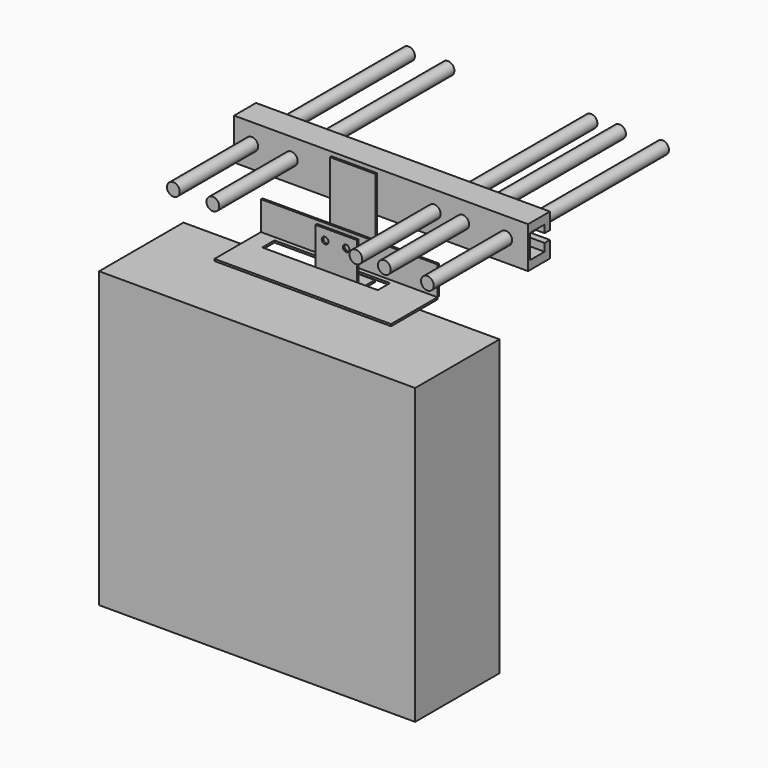
from build123d import *

# Parameters (mm, degrees)
F1_DEPTH  = 300
F2_W      = 46.7377305031
F2_H      = 37.9861071706
F2_H_2    = 57.5625300407
F2_R      = 3.5464845082
F2_R_2    = 3.5487842395
F3_DEPTH  = 2
F4_W      = 44.6821078658
F4_H      = 19.8899268657
F5_DEPTH  = 2
F6_W      = 42.6081120968
F6_H      = 44.5759128779
F6_R      = 3.435329419
F6_R_2    = 3.3732396527
F7_DEPTH  = 2
F9_W      = 180.1773458719
F9_H      = 59.2437896412
F9_W_2    = 117.9433763027
F9_H_2    = 15.5952386558
F10_DEPTH = 2
F11_W     = 180.1773458719
F11_H     = 29.4754692465
F11_R     = 2.2291737864
F11_R_2   = 2.7189611164
F12_DEPTH = 2
F14_DEPTH = 300
F15_R     = 6.5135337173
F16_DEPTH = 100
F17_DEPTH = 200


with BuildPart() as f1:
    # F0 (on Right) → F1 (new body)
    with BuildSketch(Plane.YZ):
        Polygon((0, 42.2146357596), (0, 0), (27.9495714174, 0), (27.9495714174, 16.7309522358), (21.111213831, 16.7309522358), (21.111213831, 8.854838892), (2.8035883623, 8.854838892), (2.8035883623, 33.3597968676), (21.111213831, 33.3597968676), (21.111213831, 25.4836835238), (27.9495714174, 25.4836835238), (27.9495714174, 42.2146357596), align=None)
    extrude(amount=F1_DEPTH)

    # F15 (on face) → F16 (join)
    with BuildSketch(Plane.XZ):
        with Locations((277.2662639618, 22.3724991083)):
            Circle(F15_R)
        with Locations((233.3431243896, 22.3724991083)):
            Circle(F15_R)
        with Locations((204.2811959982, 22.3724991083)):
            Circle(F15_R)
        with Locations((58.3110898733, 22.3724991083)):
            Circle(F15_R)
        with Locations((18.0206950754, 22.3724991083)):
            Circle(F15_R)
    extrude(amount=F16_DEPTH)


with BuildPart() as f3:
    # F2 (on face) → F3 (new body)
    with BuildSketch(Plane.XZ):
        with Locations((122.61942029, 18.9930535853)):
            Rectangle(F2_W, F2_H)
        with Locations((122.61942029, -28.7812650204)):
            Rectangle(F2_W, F2_H_2)
        with Locations((114.7710829973, -31.1781652272)):
            Circle(F2_R, mode=Mode.SUBTRACT)
        with Locations((133.6807757616, -30.9642702341)):
            Circle(F2_R_2, mode=Mode.SUBTRACT)
    extrude(amount=F3_DEPTH)


with BuildPart() as f5:
    # F4 (on face) → F5 (new body)
    with BuildSketch(Plane(origin=(0, 0, -57.5625300407), x_dir=(1, 0, 0), z_dir=(0, 0, -1))):
        with Locations((122.8873170912, 11.9449634328)):
            Rectangle(F4_W, F4_H)
    extrude(amount=F5_DEPTH)


with BuildPart() as f7:
    # F6 (on face) → F7 (new body)
    with BuildSketch(Plane.XZ.offset(21.8899268657)):
        with Locations((123.397231102, -35.2745736018)):
            Rectangle(F6_W, F6_H)
        with Locations((111.9984835386, -23.8939598203)):
            Circle(F6_R, mode=Mode.SUBTRACT)
        with Locations((133.4570199251, -23.9559654146)):
            Circle(F6_R_2, mode=Mode.SUBTRACT)
    extrude(amount=F7_DEPTH)


with BuildPart() as f10:
    # F9 (on offset) → F10 (new body)
    with BuildSketch(Plane.XY.offset(-47.5625300407)):
        with Locations((127.0454749465, -41.5296001593)):
            Rectangle(F9_W, F9_H)
        with Locations((113.3212447166, -24.2201592773)):
            Rectangle(F9_W_2, F9_H_2, mode=Mode.SUBTRACT)
    extrude(amount=F10_DEPTH)


with BuildPart() as f12:
    # F11 (on face) → F12 (new body)
    with BuildSketch(Plane(origin=(0, -11.9077053387, 0), x_dir=(-1, 0, 0), z_dir=(0, 1, 0))):
        with Locations((-127.0454749465, -30.8247954175)):
            Rectangle(F11_W, F11_H)
        with Locations((-134.77820158, -30.1055759192)):
            Circle(F11_R, mode=Mode.SUBTRACT)
        with Locations((-128.1123906374, -25.4479255527)):
            Circle(F11_R_2, mode=Mode.SUBTRACT)
    extrude(amount=F12_DEPTH)


with BuildPart() as f14:
    # F13 (on face) → F14 (new body)
    with BuildSketch(Plane(origin=(0, 0, -47.5625300407), x_dir=(1, 0, 0), z_dir=(0, 0, -1))):
        Polygon((298.6398339272, 142.3349231482), (-23.9203404635, 142.3349231482), (-23.9203404635, 34.7228944302), (36.9568020105, 34.7228944302), (36.9568020105, 71.1514949799), (217.1341478825, 71.1514949799), (217.1341478825, 34.7228944302), (298.6398339272, 34.7228944302), align=None)
    extrude(amount=F14_DEPTH)


with BuildPart() as f17:
    # F15 (on face) → F17 (new body)
    with BuildSketch(Plane.XZ):
        with Locations((277.2662639618, 22.3724991083)):
            Circle(F15_R)
    extrude(amount=-F17_DEPTH)


with BuildPart() as f17b:
    # F15 (on face) → F17, piece 2 (new body)
    with BuildSketch(Plane.XZ):
        with Locations((233.3431243896, 22.3724991083)):
            Circle(F15_R)
    extrude(amount=-F17_DEPTH)


with BuildPart() as f17c:
    # F15 (on face) → F17, piece 3 (new body)
    with BuildSketch(Plane.XZ):
        with Locations((204.2811959982, 22.3724991083)):
            Circle(F15_R)
    extrude(amount=-F17_DEPTH)


with BuildPart() as f17d:
    # F15 (on face) → F17, piece 4 (new body)
    with BuildSketch(Plane.XZ):
        with Locations((58.3110898733, 22.3724991083)):
            Circle(F15_R)
    extrude(amount=-F17_DEPTH)


with BuildPart() as f17e:
    # F15 (on face) → F17, piece 5 (new body)
    with BuildSketch(Plane.XZ):
        with Locations((18.0206950754, 22.3724991083)):
            Circle(F15_R)
    extrude(amount=-F17_DEPTH)


solid = Compound([f1.part, f3.part, f5.part, f7.part, f10.part, f12.part, f14.part, f17.part, f17b.part, f17c.part, f17d.part, f17e.part])
